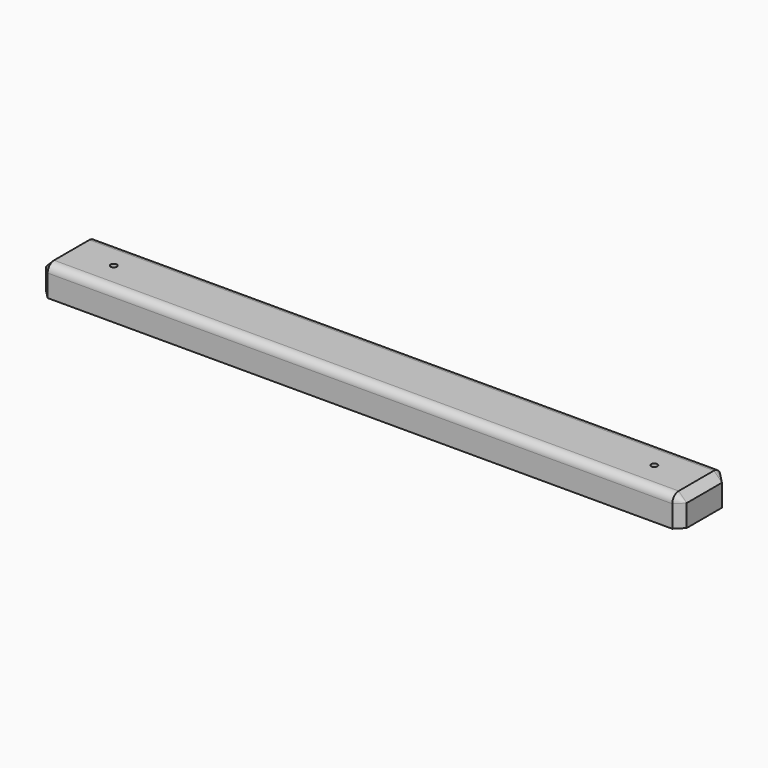
from build123d import *

# Parameters (mm, degrees)
F0_W     = 38.1
F0_H     = 19.05
F1_DEPTH = 406.4
F2_R     = 5.08
F3_SIZE  = 5.08
F4_R     = 1.984375
F5_DEPTH = 25.4


with BuildPart() as f1:
    # F0 (on Right) → F1 (new body)
    with BuildSketch(Plane.YZ):
        with Locations((19.05, 9.525)):
            Rectangle(F0_W, F0_H)
    extrude(amount=F1_DEPTH)

    # F2
    f2_edges = [f1.edges().sort_by_distance(p)[0] for p in [
        (203.2, 0, 19.05),
        (203.2, 38.1, 19.05),
    ]]
    fillet(f2_edges, radius=F2_R)

    # F3
    f3_edges = [f1.edges().sort_by_distance(p)[0] for p in [
        (406.4, 19.05, 19.05),
        (0, 19.05, 19.05),
    ]]
    chamfer(f3_edges, length=F3_SIZE)

    # F4 (on face) → F5 (cut)
    with BuildSketch(Plane(origin=(0, 0, 0), x_dir=(1, 0, 0), z_dir=(0, 0, -1))):
        with Locations((31.75, -19.05)):
            Circle(F4_R)
        with Locations((374.65, -19.05)):
            Circle(F4_R)
    extrude(amount=-F5_DEPTH, mode=Mode.SUBTRACT)


solid = f1.part
